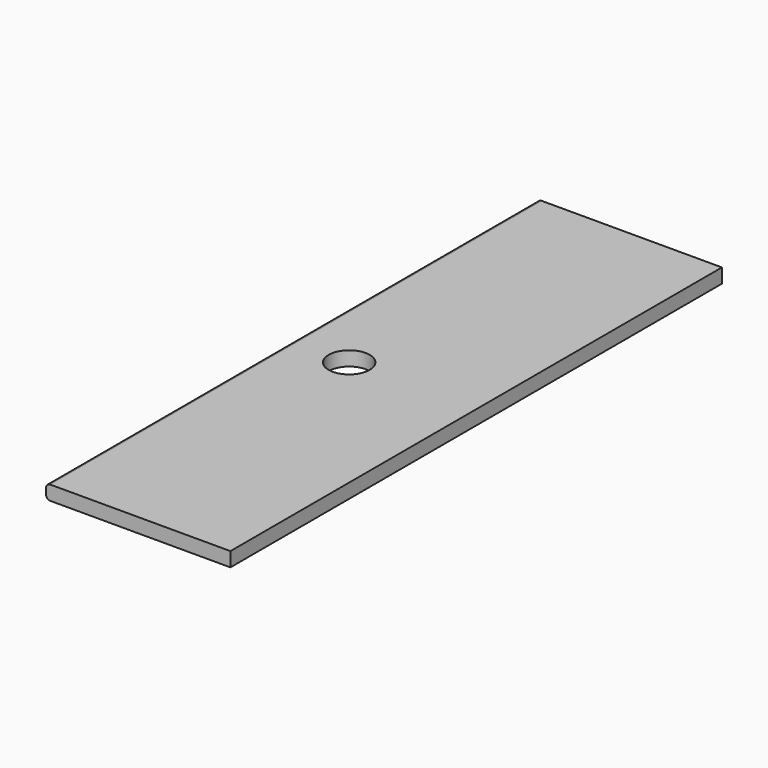
from build123d import *

# Parameters (mm, degrees)
F0_W     = 45
F0_H     = 3.5
F1_DEPTH = 75
F2_R     = 5
F3_DEPTH = 3.5
F4_R     = 1


with BuildPart() as f1:
    # F0 (on Front) → F1 (new body, symmetric)
    with BuildSketch(Plane.XZ):
        with Locations((22.5, 1.75)):
            Rectangle(F0_W, F0_H)
    extrude(amount=F1_DEPTH, both=True)

    # F2 (on Top) → F3 (cut, through all)
    with BuildSketch(Plane.XY):
        with Locations((14, 0)):
            Circle(F2_R)
    extrude(amount=F3_DEPTH, mode=Mode.SUBTRACT)

    # F4
    f4_edges = [f1.edges().sort_by_distance(p)[0] for p in [
        (0, 0, 3.5),
        (0, 0, 0),
    ]]
    fillet(f4_edges, radius=F4_R)


solid = f1.part
